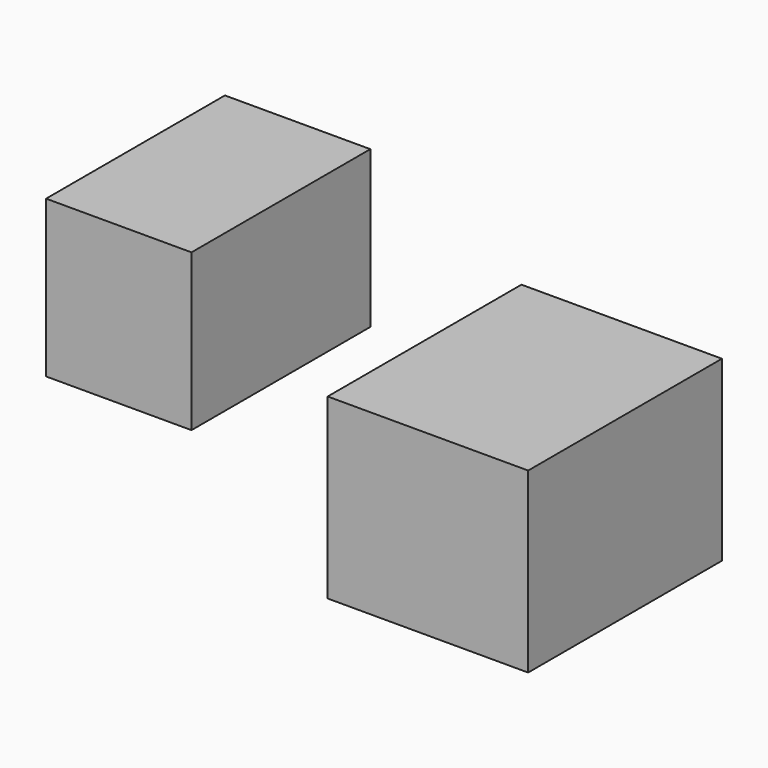
from build123d import *

# Parameters (mm, degrees)
F0_W     = 37.895217
F0_H     = 40.796248
F1_DEPTH = 58.25556
F4_W     = 52.249454
F4_H     = 46.353085
F5_DEPTH = 63.12129


with BuildPart() as f1:
    # F0 (on Front) → F1 (new body)
    with BuildSketch(Plane.XZ):
        with Locations((-120.862804, 10.325811)):
            Rectangle(F0_W, F0_H)
    extrude(amount=F1_DEPTH)


with BuildPart() as f2_1:
    # F2: copy of F1
    add(f1.part.moved(Location((89.22943, 0, 0))))


with BuildPart() as f5:
    # F4 (on Front) → F5 (new body)
    with BuildSketch(Plane.XZ):
        with Locations((52.82364, -10.732325)):
            Rectangle(F4_W, F4_H)
    extrude(amount=F5_DEPTH)


solid = Compound([f2_1.part, f5.part])
